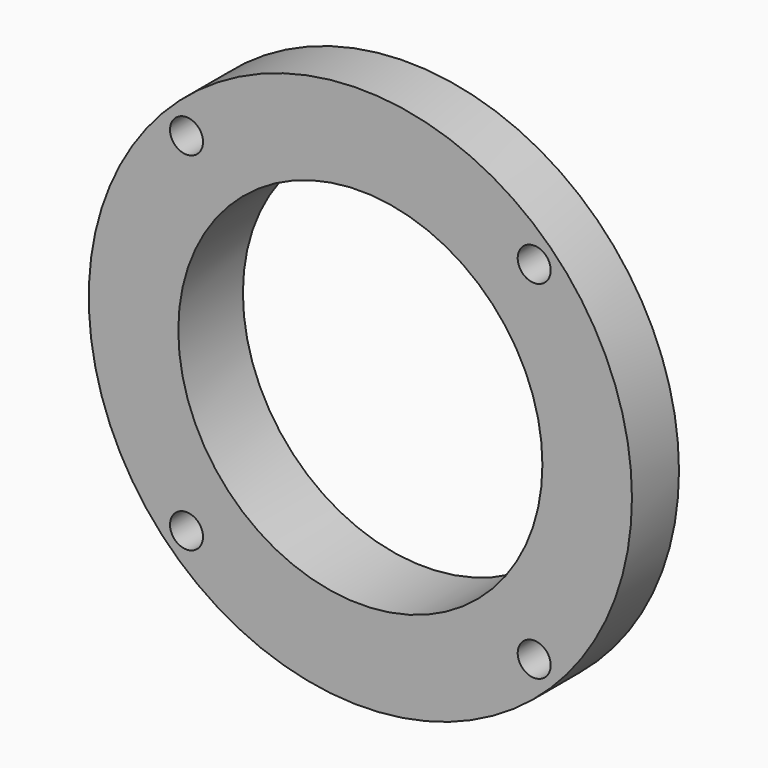
from build123d import *

# Parameters (mm, degrees)
F0_R     = 58.7341750738
F1_DEPTH = 17.4625
F2_W     = 17.6311007185
F2_H     = 8.097752736
F4_SIZE  = 1.27
F6_D     = 7.1374
F7_D     = 78.74


with BuildPart() as f1:
    # F0 (on Front) → F1 (new body)
    with BuildSketch(Plane.XZ):
        Circle(F0_R)
    extrude(amount=F1_DEPTH)

    # F2 (on Top) → F3 (revolve, cut)
    with BuildSketch(Plane.XY):
        with Locations((-54.5355503593, -0.700923632)):
            Rectangle(F2_W, F2_H)
    revolve(axis=Axis((0, -1.8075983971, 0), (0, -1, 0)), mode=Mode.SUBTRACT)

    # F4
    f4_edges = [f1.edges().sort_by_distance(p)[0] for p in [
        (45.72, 0, 0),
    ]]
    chamfer(f4_edges, length=F4_SIZE)

    # F6 (through all)
    with Locations(Plane.XZ.offset(17.4625)):
        with Locations((-37.592, 37.592), (37.592, 37.592), (37.592, -37.592), (-37.592, -37.592)):
            Hole(F6_D / 2)

    # F7 (through all)
    with Locations(Plane.XZ.offset(17.4625)):
        with Locations((0, 0)):
            Hole(F7_D / 2)


solid = f1.part
